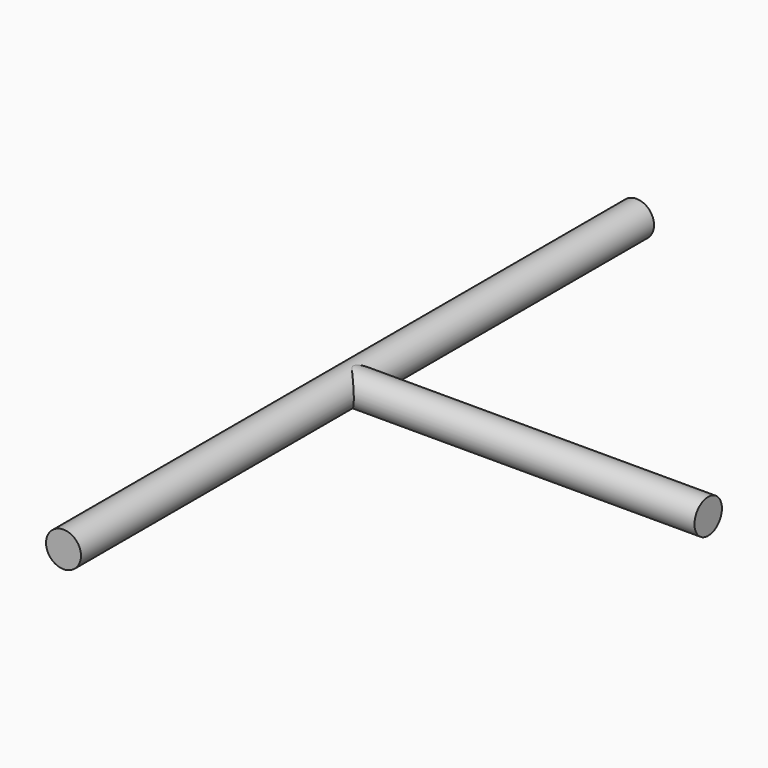
from build123d import *

# Parameters (mm, degrees)
F0_R     = 24.774232
F1_DEPTH = 508
F2_R     = 24.328975
F3_DEPTH = 508


with BuildPart() as f1:
    # F0 (on Front) → F1 (new body, symmetric)
    with BuildSketch(Plane.XZ):
        Circle(F0_R)
    extrude(amount=F1_DEPTH, both=True)

    # F2 (on Right) → F3 (join)
    with BuildSketch(Plane.YZ):
        Circle(F2_R)
    extrude(amount=F3_DEPTH)


solid = f1.part
